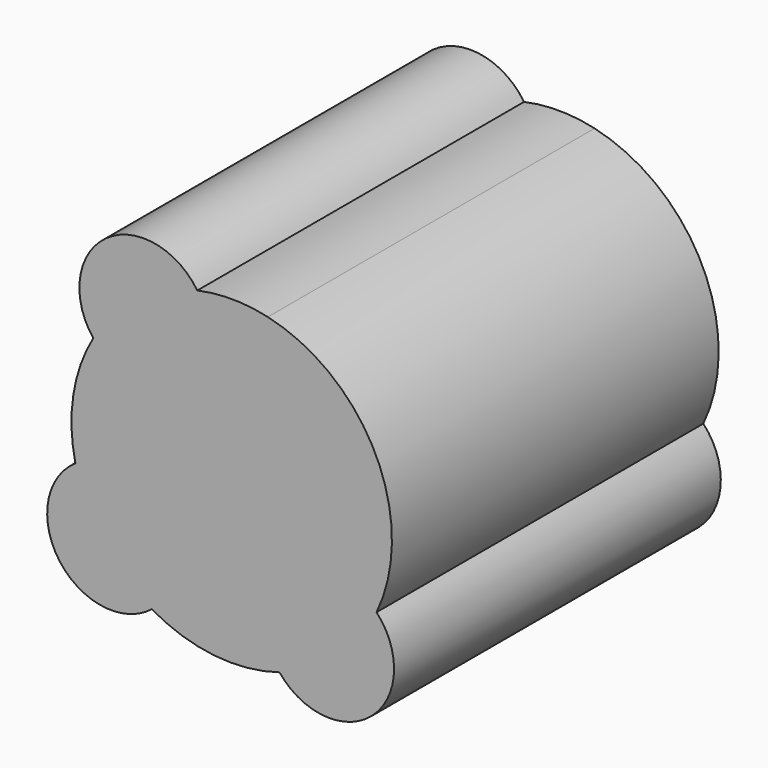
from build123d import *

# Parameters (mm, degrees)
F1_DEPTH = 13


with BuildPart() as f1:
    # F0 (on Front) → F1 (new body)
    with BuildSketch(Plane.XZ):
        with BuildLine():
            ThreePointArc((4.611149, -2.17883), (4.590029, 2.222978), (1.149529, 4.968761))
            ThreePointArc((1.149529, 4.968761), (0.02763, 5.099925), (-1.095626, 4.980924))
            ThreePointArc((-1.095626, 4.980924), (-4.005325, 5.495214), (-4.406426, 2.567764))
            ThreePointArc((-4.406426, 2.567764), (-5.040614, 0.77602), (-4.974709, -1.123507))
            ThreePointArc((-4.974709, -1.123507), (-5.472693, -4.036041), (-2.543043, -4.420739))
            ThreePointArc((-2.543043, -4.420739), (-0.558095, -5.069372), (1.520421, -4.868092))
            ThreePointArc((1.520421, -4.868092), (4.463595, -5.129943), (4.611149, -2.17883))
        make_face()
    extrude(amount=F1_DEPTH)


solid = f1.part
